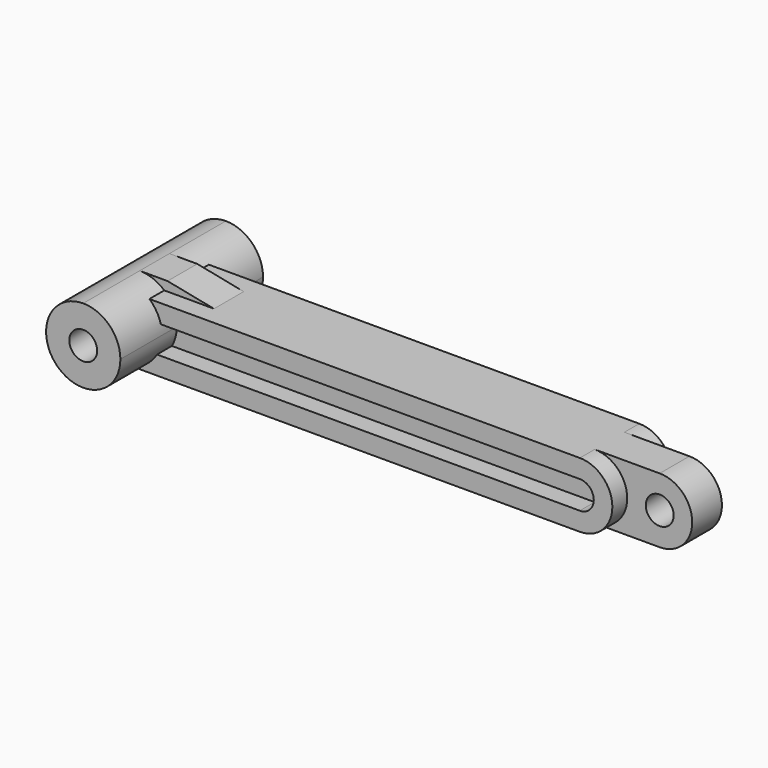
from build123d import *

# Parameters (mm, degrees)
F0_R     = 0.75
F1_DEPTH = 1
F2_DEPTH = 4.8
F4_DEPTH = 2


with BuildPart() as f1:
    # F0 (on Front) → F1 (new body, symmetric)
    with BuildSketch(Plane.XZ):
        with BuildLine():
            Line((-4, 0), (0, 0))
            Line((0, 0), (24, 0))
            ThreePointArc((24, 0), (25.75, 1.75), (24, 3.5))
            Line((24, 3.5), (0, 3.5))
            Line((0, 3.5), (-2.5, 4))
            Line((-2.5, 4), (-4, 4))
            ThreePointArc((-4, 4), (-2.585786, 3.414214), (-2, 2))
            ThreePointArc((-2, 2), (-2.585786, 0.585786), (-4, 0))
        make_face()
        with Locations((24, 1.75)):
            Circle(F0_R, mode=Mode.SUBTRACT)
        with BuildLine():
            ThreePointArc((-4, 4), (-6, 2), (-4, 0))
            ThreePointArc((-4, 0), (-2.585786, 0.585786), (-2, 2))
            ThreePointArc((-2, 2), (-2.585786, 3.414214), (-4, 4))
        make_face()
        with Locations((-4, 2)):
            Circle(F0_R, mode=Mode.SUBTRACT)
    extrude(amount=F1_DEPTH, both=True)

    # F0 (on Front) → F2 (join, symmetric)
    with BuildSketch(Plane.XZ):
        with BuildLine():
            ThreePointArc((-4, 4), (-6, 2), (-4, 0))
            ThreePointArc((-4, 0), (-2.585786, 0.585786), (-2, 2))
            ThreePointArc((-2, 2), (-2.585786, 3.414214), (-4, 4))
        make_face()
        with Locations((-4, 2)):
            Circle(F0_R, mode=Mode.SUBTRACT)
    extrude(amount=F2_DEPTH, both=True)

    # F3 (on Front) → F4 (join, symmetric)
    with BuildSketch(Plane.XZ):
        with BuildLine():
            Line((20.5, 3.5), (0, 3.5))
            Line((0, 3.5), (-3.022093, 3.5))
            Line((-3.022093, 3.5), (-3.022093, 2.5))
            Line((-3.022093, 2.5), (0, 2.5))
            Line((0, 2.5), (20.5, 2.5))
            ThreePointArc((20.5, 2.5), (21.25, 1.75), (20.5, 1))
            Line((20.5, 1), (-4, 1))
            Line((-4, 1), (-4, 0))
            Line((-4, 0), (20.5, 0))
            ThreePointArc((20.5, 0), (22.25, 1.75), (20.5, 3.5))
        make_face()
    extrude(amount=F4_DEPTH, both=True)


solid = f1.part
